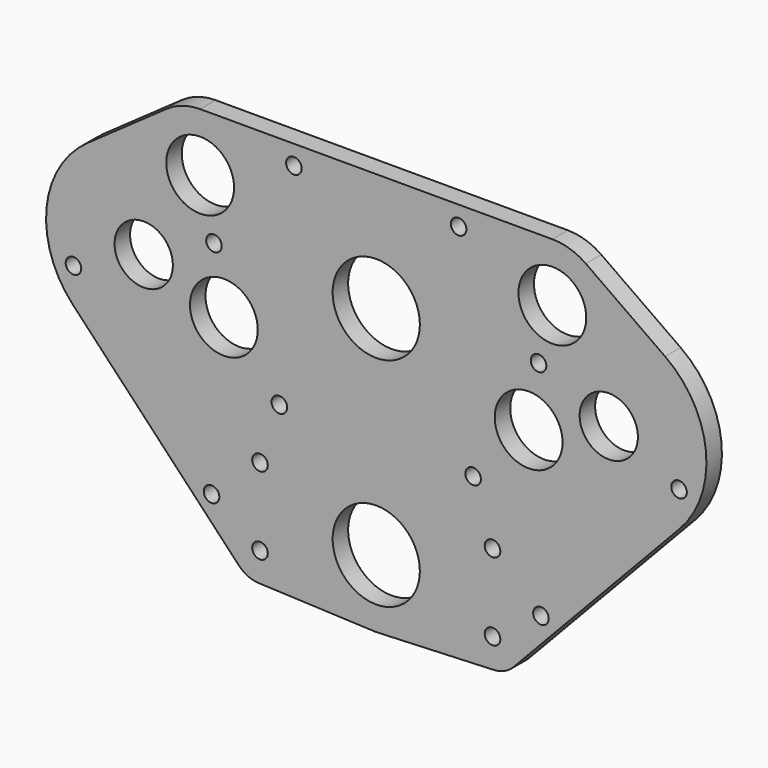
from build123d import *

# Parameters (mm, degrees)
F0_R     = 2.5527
F0_R_2   = 14.2875
F0_R_3   = 9.5504
F0_R_4   = 11.1125
F1_DEPTH = 6.35


with BuildPart() as f1:
    # F0 (on Front) → F1 (new body)
    with BuildSketch(Plane.XZ):
        with BuildLine():
            Line((-99.456923, 38.339287), (-45.021703, -19.243367))
            ThreePointArc((-45.021703, -19.243367), (-42.050874, -21.366962), (-38.499317, -22.216626))
            Line((-38.499317, -22.216626), (-0.931741, -23.792961))
            ThreePointArc((-0.931741, -23.792961), (0, -23.8125), (0.931741, -23.792961))
            Line((0.931741, -23.792961), (38.499317, -22.216626))
            ThreePointArc((38.499317, -22.216626), (42.050874, -21.366962), (45.021703, -19.243367))
            Line((45.021703, -19.243367), (99.456923, 38.339287))
            ThreePointArc((99.456923, 38.339287), (108.045638, 63.504837), (94.65047, 86.475261))
            Line((94.65047, 86.475261), (68.686167, 104.794528))
            ThreePointArc((68.686167, 104.794528), (63.4647, 107.386922), (57.703744, 108.278896))
            Line((57.703744, 108.278896), (-57.703744, 108.278896))
            ThreePointArc((-57.703744, 108.278896), (-63.4647, 107.386922), (-68.686167, 104.794528))
            Line((-68.686167, 104.794528), (-94.65047, 86.475261))
            ThreePointArc((-94.65047, 86.475261), (-108.045638, 63.504837), (-99.456923, 38.339287))
        make_face()
        with Locations((-38.1, -12.7)):
            Circle(F0_R, mode=Mode.SUBTRACT)
        with Locations((-53.975, -1.5875)):
            Circle(F0_R, mode=Mode.SUBTRACT)
        with Locations((0, -1.5875)):
            Circle(F0_R_2, mode=Mode.SUBTRACT)
        with Locations((-38.1, 12.7)):
            Circle(F0_R, mode=Mode.SUBTRACT)
        with Locations((-31.75, 31.4325)):
            Circle(F0_R, mode=Mode.SUBTRACT)
        with Locations((38.1, -12.7)):
            Circle(F0_R, mode=Mode.SUBTRACT)
        with Locations((53.975, -1.5875)):
            Circle(F0_R, mode=Mode.SUBTRACT)
        with Locations((38.1, 12.7)):
            Circle(F0_R, mode=Mode.SUBTRACT)
        with Locations((31.75, 31.4325)):
            Circle(F0_R, mode=Mode.SUBTRACT)
        with Locations((-99.220218, 49.590496)):
            Circle(F0_R, mode=Mode.SUBTRACT)
        with Locations((-76.2, 60.325)):
            Circle(F0_R_3, mode=Mode.SUBTRACT)
        with Locations((-49.937819, 50.751531)):
            Circle(F0_R_4, mode=Mode.SUBTRACT)
        with Locations((-53.179782, 71.059504)):
            Circle(F0_R, mode=Mode.SUBTRACT)
        with Locations((0, 69.5325)):
            Circle(F0_R_2, mode=Mode.SUBTRACT)
        with Locations((-57.703744, 89.228896)):
            Circle(F0_R_4, mode=Mode.SUBTRACT)
        with Locations((-26.9875, 101.928896)):
            Circle(F0_R, mode=Mode.SUBTRACT)
        with Locations((49.937819, 50.751531)):
            Circle(F0_R_4, mode=Mode.SUBTRACT)
        with Locations((53.179782, 71.059504)):
            Circle(F0_R, mode=Mode.SUBTRACT)
        with Locations((99.220218, 49.590496)):
            Circle(F0_R, mode=Mode.SUBTRACT)
        with Locations((76.2, 60.325)):
            Circle(F0_R_3, mode=Mode.SUBTRACT)
        with Locations((26.9875, 101.928896)):
            Circle(F0_R, mode=Mode.SUBTRACT)
        with Locations((57.703744, 89.228896)):
            Circle(F0_R_4, mode=Mode.SUBTRACT)
    extrude(amount=F1_DEPTH)


solid = f1.part
